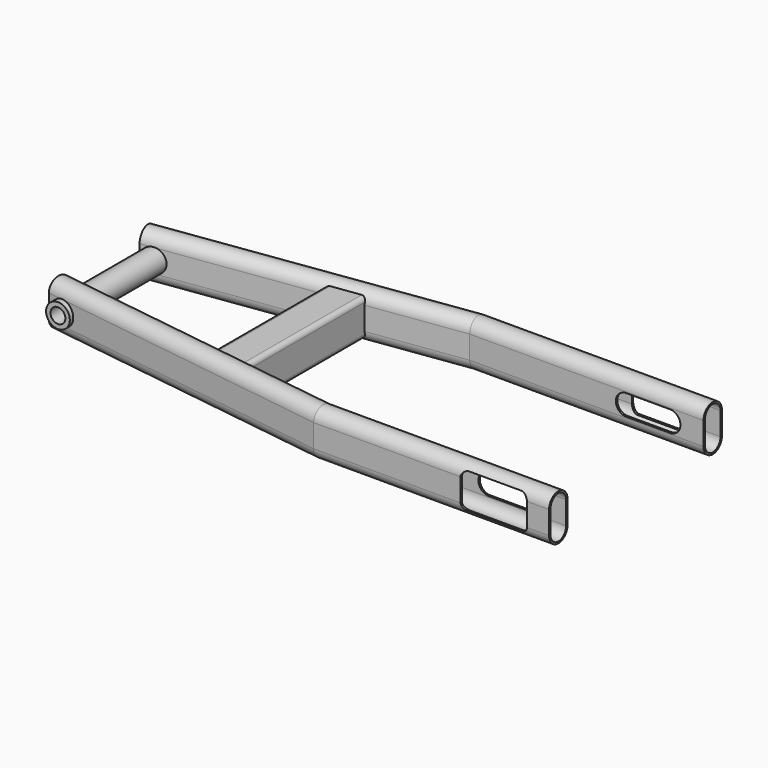
from build123d import *

# Parameters (mm, degrees)
F5_DEPTH  = 2500
F6_R      = 8
F7_DEPTH  = 50
F10_R     = 5
F11_DEPTH = 122.7510001
F12_DEPTH = 3
F8_W      = 25
F8_H      = 25
F14_R     = 3
F16_DEPTH = 3
F18_DEPTH = 3


with BuildPart() as f2:
    # F2: sweep along a path in F0
    with BuildLine(Plane.XY) as f2_path:
        Line((0, 65), (-158.03, 65))
        Line((-158.03, 65), (-358.4206463905, 36.8369312897))
    # F1 (on Right) → F2 (sweep)
    with BuildSketch(Plane.YZ):
        with BuildLine():
            ThreePointArc((72.75, 7.75), (65, 15.5), (57.25, 7.75))
            Line((57.25, 7.75), (57.25, -7.75))
            ThreePointArc((57.25, -7.75), (65, -15.5), (72.75, -7.75))
            Line((72.75, -7.75), (72.75, 7.75))
        make_face()
        with BuildLine():
            Line((58.45, -7.75), (58.45, 7.75))
            ThreePointArc((58.45, 7.75), (65, 14.3), (71.55, 7.75))
            Line((71.55, 7.75), (71.55, -7.75))
            ThreePointArc((71.55, -7.75), (65, -14.3), (58.45, -7.75))
        make_face(mode=Mode.SUBTRACT)
    sweep(path=f2_path.line, transition=Transition.RIGHT)


with BuildPart() as f3_1:
    # F3: instance of F2
    add(f2.part.mirror(Plane.XZ))


with BuildPart() as f5_tool:
    # F4 (on face) → F5 (new body, symmetric)
    with BuildSketch(Plane.XZ.offset(72.75)):
        with BuildLine():
            Line((-52.04, -7), (-22.54, -7))
            ThreePointArc((-22.54, -7), (-15.54, 0), (-22.54, 7))
            Line((-22.54, 7), (-52.04, 7))
            ThreePointArc((-52.04, 7), (-59.04, 0), (-52.04, -7))
        make_face()
    extrude(amount=F5_DEPTH, both=True)


with BuildPart() as f2_1:
    add(f2.part)

    # F5: cut by f5_tool
    add(f5_tool.part, mode=Mode.SUBTRACT)



with BuildPart() as f3_1_1:
    add(f3_1.part)

    # F5: cut by f5_tool
    add(f5_tool.part, mode=Mode.SUBTRACT)


with BuildPart() as f2_2:
    add(f2_1.part)

    add(f3_1_1.part)  # F7 merges F3_1
    # F6 (on Front) → F7 (join, symmetric)
    with BuildSketch(Plane.XZ):
        with Locations((-349.019237923, 0)):
            Circle(F6_R)
    extrude(amount=F7_DEPTH, both=True)

    # F10 (on face) → F11 (cut, through all)
    with BuildSketch(Plane.XZ.offset(50)):
        with Locations((-349.019237923, 0)):
            Circle(F10_R)
    extrude(amount=-F11_DEPTH, mode=Mode.SUBTRACT)

    # F9 (on face) → F12 (cut)
    with BuildSketch(Plane.XZ.offset(72.75)):
        with BuildLine():
            Line((-54.76, -12), (-19.76, -12))
            ThreePointArc((-19.76, -12), (-16.2244660941, -10.5355339059), (-14.76, -7))
            Line((-14.76, -7), (-14.76, 7))
            ThreePointArc((-14.76, 7), (-16.2244660941, 10.5355339059), (-19.76, 12))
            Line((-19.76, 12), (-54.76, 12))
            ThreePointArc((-54.76, 12), (-58.2955339059, 10.5355339059), (-59.76, 7))
            Line((-59.76, 7), (-59.76, -7))
            ThreePointArc((-59.76, -7), (-58.2955339059, -10.5355339059), (-54.76, -12))
        make_face()
        with BuildLine():
            Line((-22.54, -7), (-52.04, -7))
            ThreePointArc((-52.04, -7), (-59.04, 0), (-52.04, 7))
            Line((-52.04, 7), (-22.54, 7))
            ThreePointArc((-22.54, 7), (-15.54, 0), (-22.54, -7))
        make_face(mode=Mode.SUBTRACT)
    extrude(amount=-F12_DEPTH, mode=Mode.SUBTRACT)

    # F8 (on Front) → F13 (join, up to the next surface of F2)
    with BuildSketch(Plane.XZ):
        with Locations((-233.5764880988, 0)):
            Rectangle(F8_W, F8_H)
        with BuildLine():
            Line((-243.0764880988, 10.9), (-224.0764880988, 10.9))
            ThreePointArc((-224.0764880988, 10.9), (-223.0865386051, 10.4899494937), (-222.6764880988, 9.5))
            Line((-222.6764880988, 9.5), (-222.6764880988, -9.5))
            ThreePointArc((-222.6764880988, -9.5), (-223.0865386051, -10.4899494937), (-224.0764880988, -10.9))
            Line((-224.0764880988, -10.9), (-243.0764880988, -10.9))
            ThreePointArc((-243.0764880988, -10.9), (-244.0664375925, -10.4899494937), (-244.4764880988, -9.5))
            Line((-244.4764880988, -9.5), (-244.4764880988, 9.5))
            ThreePointArc((-244.4764880988, 9.5), (-244.0664375925, 10.4899494937), (-243.0764880988, 10.9))
        make_face(mode=Mode.SUBTRACT)
    extrude(until=Until.NEXT)

    # F14
    f14_edges = [f2_2.edges().sort_by_distance(p)[0] for p in [
        (-221.076488, -24.977744, 12.5),
        (-246.076488, -23.220984, 12.5),
        (-221.076488, -24.977744, -12.5),
        (-246.076488, -23.220984, -12.5),
    ]]
    fillet(f14_edges, radius=F14_R)

    # F15: F2 across plane


with BuildPart() as f2_3:
    add(f2_2.part)
    add(f2_2.part.mirror(Plane.XZ))

    # F9 (on face) → F16 (cut)
    with BuildSketch(Plane.XZ.offset(72.75)):
        with BuildLine():
            Line((-54.76, -12), (-19.76, -12))
            ThreePointArc((-19.76, -12), (-16.2244660941, -10.5355339059), (-14.76, -7))
            Line((-14.76, -7), (-14.76, 7))
            ThreePointArc((-14.76, 7), (-16.2244660941, 10.5355339059), (-19.76, 12))
            Line((-19.76, 12), (-54.76, 12))
            ThreePointArc((-54.76, 12), (-58.2955339059, 10.5355339059), (-59.76, 7))
            Line((-59.76, 7), (-59.76, -7))
            ThreePointArc((-59.76, -7), (-58.2955339059, -10.5355339059), (-54.76, -12))
        make_face()
        with BuildLine():
            Line((-22.54, -7), (-52.04, -7))
            ThreePointArc((-52.04, -7), (-59.04, 0), (-52.04, 7))
            Line((-52.04, 7), (-22.54, 7))
            ThreePointArc((-22.54, 7), (-15.54, 0), (-22.54, -7))
        make_face(mode=Mode.SUBTRACT)
    extrude(amount=-F16_DEPTH, mode=Mode.SUBTRACT)

    # F17 (on face) → F18 (cut)
    with BuildSketch(Plane(origin=(0, 72.75, 0), x_dir=(-1, 0, 0), z_dir=(0, 1, 0))):
        with BuildLine():
            ThreePointArc((59.76, 7), (58.2955339059, 10.5355339059), (54.76, 12))
            Line((54.76, 12), (19.76, 12))
            ThreePointArc((19.76, 12), (16.2244660941, 10.5355339059), (14.76, 7))
            Line((14.76, 7), (14.76, -7))
            ThreePointArc((14.76, -7), (16.2244660941, -10.5355339059), (19.76, -12))
            Line((19.76, -12), (54.76, -12))
            ThreePointArc((54.76, -12), (58.2955339059, -10.5355339059), (59.76, -7))
            Line((59.76, -7), (59.76, 7))
        make_face()
    extrude(amount=-F18_DEPTH, mode=Mode.SUBTRACT)


solid = f2_3.part
